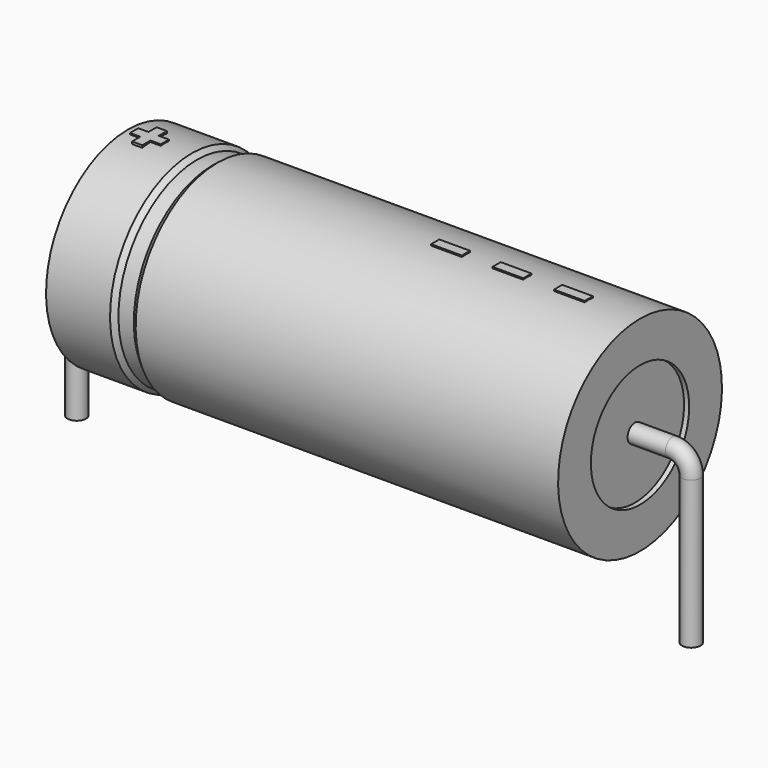
from build123d import *

# Parameters (mm, degrees)
SKETCH_R    = 0.45
SKETCH004_W = 1.5
SKETCH004_H = 0.5
PAD_DEPTH   = 5.05


with BuildPart() as sweep_body:
    # Sweep: sweep along a path in Sketch001
    with BuildLine(Plane.XZ) as sweep_path:
        Line((0, -3), (0, 4.2))
        ThreePointArc((0, 4.2), (0.263601, 4.836394), (0.899993, 5.1))
        Line((0.899993, 5.1), (29.1, 5.1))
        ThreePointArc((29.1, 5.1), (29.736396, 4.836396), (30, 4.2))
        Line((30, 4.2), (30, -3))
    # Sketch → Sweep (sweep)
    with BuildSketch(Plane.XY.offset(-2)):
        Circle(SKETCH_R)
    sweep(path=sweep_path.line)


with BuildPart() as revolution:
    # Sketch002 → Revolution (revolve)
    with BuildSketch(Plane.XZ):
        Polygon((2.5, 10.1), (2.5, 8.1), (27.5, 8.1), (27.5, 10.1), (6.875, 10.1), (6.625, 9.9), (5.875, 9.9), (5.625, 10.1), align=None)
    revolve(axis=Axis((6.97588, 0, 5.1), (1, 0, 0)))


with BuildPart() as revolution001:
    # Sketch003 → Revolution001 (revolve)
    with BuildSketch(Plane.XZ):
        Polygon((2.75, 9.9), (4, 9.9), (4, 5.6), (26, 5.6), (26, 9.9), (27.25, 9.9), (27.25, 5.1), (2.75, 5.1), align=None)
    revolve(axis=Axis((6.97588, 0, 5.1), (1, 0, 0)))


with BuildPart() as pad:
    # Sketch004 → Pad (new body)
    with BuildSketch(Plane.XY.offset(5.1)):
        with Locations((24.25, 0)):
            Rectangle(SKETCH004_W, SKETCH004_H)
        with Locations((21.25, 0)):
            Rectangle(SKETCH004_W, SKETCH004_H)
        with Locations((18.25, 0)):
            Rectangle(SKETCH004_W, SKETCH004_H)
        Polygon((3.3, 0.25), (2.8, 0.25), (2.8, -0.25), (3.3, -0.25), (3.3, -0.75), (3.8, -0.75), (3.8, -0.25), (4.3, -0.25), (4.3, 0.25), (3.8, 0.25), (3.8, 0.75), (3.3, 0.75), align=None)
    extrude(amount=PAD_DEPTH)


solid = Compound([sweep_body.part, revolution.part, revolution001.part, pad.part])
